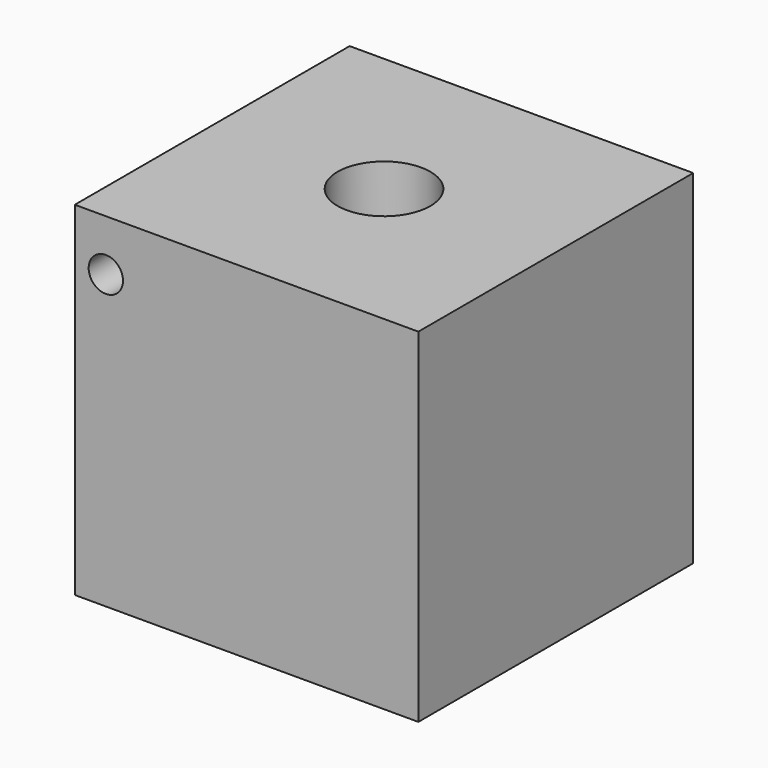
from build123d import *

# Parameters (mm, degrees)
F0_W     = 10
F0_H     = 10
F1_DEPTH = 10
F2_R     = 1.35
F3_DEPTH = 5.15
F4_R     = 0.5
F5_DEPTH = 10.001


with BuildPart() as f1:
    # F0 (on Top) → F1 (new body)
    with BuildSketch(Plane.XY):
        with Locations((5, 5)):
            Rectangle(F0_W, F0_H)
    extrude(amount=F1_DEPTH)

    # F2 (on face) → F3 (cut)
    with BuildSketch(Plane.XY.offset(10)):
        with Locations((5, 5)):
            Circle(F2_R)
    extrude(amount=-F3_DEPTH, mode=Mode.SUBTRACT)

    # F4 (on face) → F5 (cut, through all)
    with BuildSketch(Plane.XZ):
        with Locations((0.903822, 8.507882)):
            Circle(F4_R)
    extrude(amount=-F5_DEPTH, mode=Mode.SUBTRACT)


solid = f1.part
